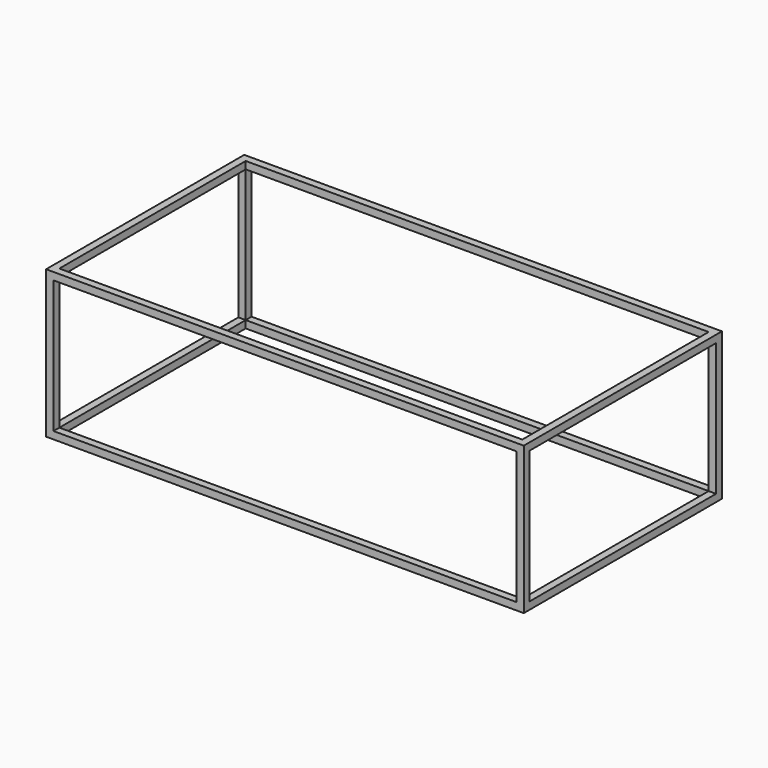
from build123d import *

# Parameters (mm, degrees)
F1_DEPTH = 25
F2_W     = 25
F2_H     = 25
F3_DEPTH = 450
F5_DEPTH = 25


with BuildPart() as f1:
    # F0 (on Top) → F1 (new body)
    with BuildSketch(Plane.XY):
        Polygon((-25, 25), (0, 0), (0, 840), (-25, 815), (-25, 420), align=None)
        Polygon((-1620, 0), (0, 0), (-25, 25), (-810, 25), (-1595, 25), align=None)
        Polygon((-1620, 840), (-1620, 0), (-1595, 25), (-1595, 420), (-1595, 815), align=None)
        Polygon((-25, 815), (0, 840), (-1620, 840), (-1595, 815), (-810, 815), align=None)
    extrude(amount=F1_DEPTH)

    # F2 (on face) → F3 (join)
    with BuildSketch(Plane.XY.offset(25)):
        with Locations((-1607.5, 12.5)):
            Rectangle(F2_W, F2_H)
        with Locations((-1607.5, 827.5)):
            Rectangle(F2_W, F2_H)
        with Locations((-12.5, 12.5)):
            Rectangle(F2_W, F2_H)
        with Locations((-12.5, 827.5)):
            Rectangle(F2_W, F2_H)
    extrude(amount=F3_DEPTH)

    # F4 (on face) → F5 (join)
    with BuildSketch(Plane.XY.offset(475)):
        Polygon((-25, 815), (0, 840), (-1620, 840), (-1595, 815), (-810, 815), align=None)
        Polygon((0, 0), (0, 840), (-25, 815), (-25, 420), (-25, 25), align=None)
        Polygon((-1595, 815), (-1620, 840), (-1620, 0), (-1595, 25), (-1595, 420), align=None)
        Polygon((-1620, 0), (0, 0), (-25, 25), (-810, 25), (-1595, 25), align=None)
    extrude(amount=F5_DEPTH)


solid = f1.part
